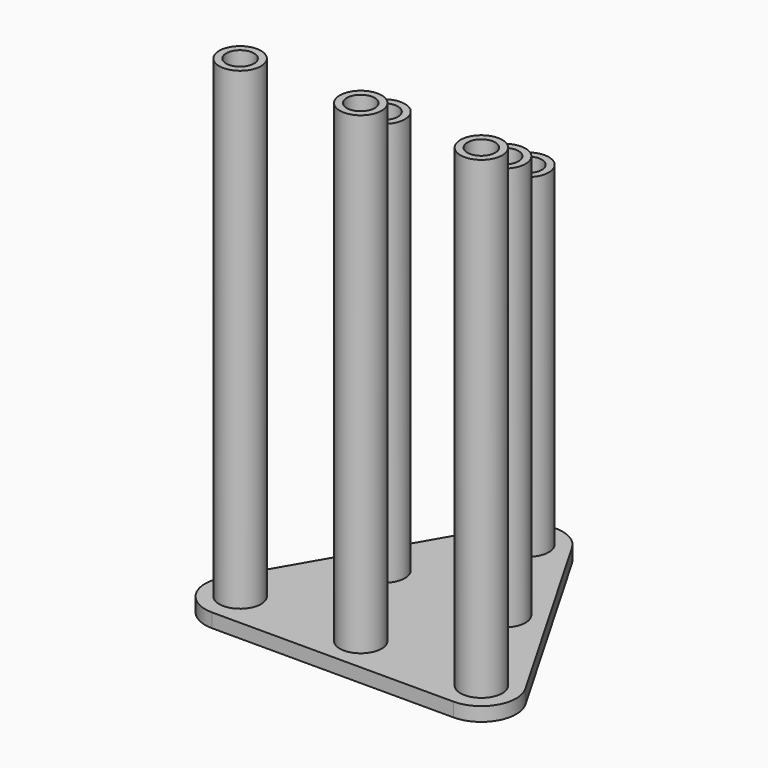
from build123d import *

# Parameters (mm, degrees)
F0_R     = 3
F0_R_2   = 2
F1_DEPTH = 50
F2_DEPTH = 60
F3_DEPTH = 60
F4_DEPTH = 70
F5_DEPTH = 70
F6_DEPTH = 70
F8_DEPTH = 2
F9_R     = 5


with BuildPart() as f1:
    # F0 (on Top) → F1 (new body)
    with BuildSketch(Plane.XY):
        Circle(F0_R)
        Circle(F0_R_2, mode=Mode.SUBTRACT)
    extrude(amount=F1_DEPTH)



with BuildPart() as f2:
    # F0 (on Top) → F2 (new body)
    with BuildSketch(Plane.XY):
        with Locations((-8.660254, -15)):
            Circle(F0_R)
        with Locations((-8.660254, -15)):
            Circle(F0_R_2, mode=Mode.SUBTRACT)
    extrude(amount=F2_DEPTH)


with BuildPart() as f3:
    # F0 (on Top) → F3 (new body)
    with BuildSketch(Plane.XY):
        with Locations((8.660254, -15)):
            Circle(F0_R)
        with Locations((8.660254, -15)):
            Circle(F0_R_2, mode=Mode.SUBTRACT)
    extrude(amount=F3_DEPTH)


with BuildPart() as f4:
    # F0 (on Top) → F4 (new body)
    with BuildSketch(Plane.XY):
        with Locations((17.320508, -30)):
            Circle(F0_R)
        with Locations((17.320508, -30)):
            Circle(F0_R_2, mode=Mode.SUBTRACT)
    extrude(amount=F4_DEPTH)


with BuildPart() as f5:
    # F0 (on Top) → F5 (new body)
    with BuildSketch(Plane.XY):
        with Locations((0, -30)):
            Circle(F0_R)
        with Locations((0, -30)):
            Circle(F0_R_2, mode=Mode.SUBTRACT)
    extrude(amount=F5_DEPTH)


with BuildPart() as f6:
    # F0 (on Top) → F6 (new body)
    with BuildSketch(Plane.XY):
        with Locations((-17.320508, -30)):
            Circle(F0_R)
        with Locations((-17.320508, -30)):
            Circle(F0_R_2, mode=Mode.SUBTRACT)
    extrude(amount=F6_DEPTH)


with BuildPart() as f1_1:
    add(f1.part)

    add(f2.part)  # F8 merges F2

    add(f3.part)  # F8 merges F3

    add(f4.part)  # F8 merges F4

    add(f5.part)  # F8 merges F5

    add(f6.part)  # F8 merges F6
    # F7 (on Top) → F8 (join)
    with BuildSketch(Plane.XY):
        Polygon((0, 10), (-25.980762, -35), (25.980762, -35), align=None)
    extrude(amount=F8_DEPTH)

    # F9
    f9_edges = [f1_1.edges().sort_by_distance(p)[0] for p in [
        (0, 10, 1),
        (-25.980762, -35, 1),
        (25.980762, -35, 1),
    ]]
    fillet(f9_edges, radius=F9_R)


solid = f1_1.part
